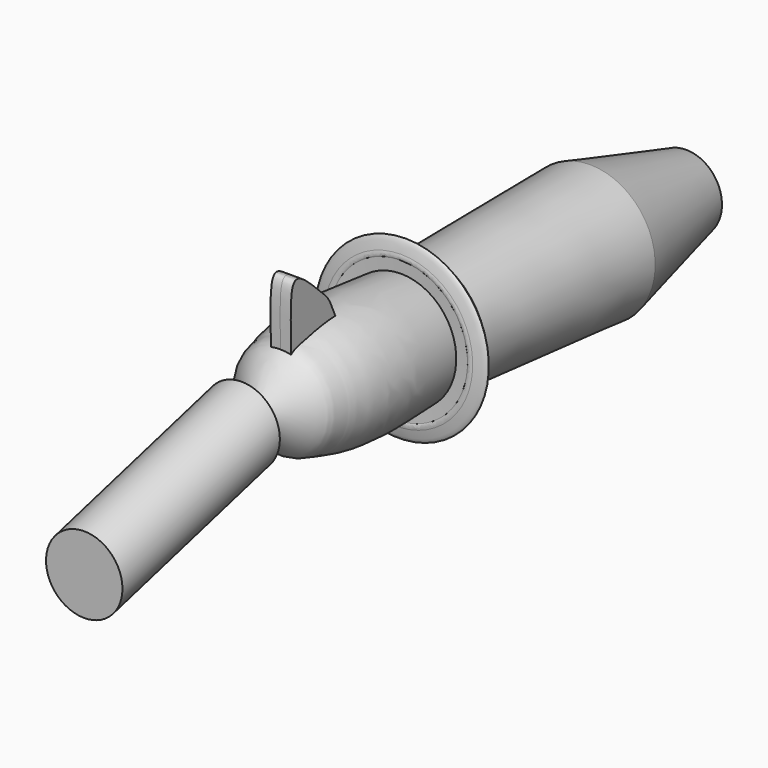
from build123d import *

# Parameters (mm, degrees)
F3_DEPTH      = 3.18879
F3_DEPTH_BACK = 2.87043
F5_R          = 11.4831070985


with BuildPart() as f1:
    # F0 (on Right) → F1 (revolve)
    with BuildSketch(Plane.YZ):
        with BuildLine():
            Line((-35.8375459909, 0), (-34.5735326409, 0))
            add(Edge.make_bspline(
                [(-34.5735326409, 0), (-33.4839411417, 2.8352549766), (-33.2893912504, 5.9047763272), (-35.7264161231, 6.443526059), (-36.0177738871, 5.9354789921)],
                knots=[0, 0, 0, 0, 0.6022047694, 0.8345112386, 0.8345112386, 0.8345112386, 0.8345112386], degree=3))
            add(Edge.make_bspline(
                [(-36.0177738871, 5.9354789921), (-35.7958521289, 4.958153288), (-35.7043367754, 4.020275204), (-35.8375459909, 3.6809511948)],
                knots=[0.7900379855, 0.7900379855, 0.7900379855, 0.7900379855, 1, 1, 1, 1], degree=3))
            Line((-35.8375459909, 3.6809511948), (-35.8375459909, 0))
        make_face()
        with BuildLine():
            Line((32.0533141494, 0), (-34.5735326409, 0))
            Line((-34.5735326409, 0), (-35.8375459909, 0))
            Line((-35.8375459909, 0), (-38.3094936345, 0))
            Line((-38.3094936345, 0), (-39.0193797648, 0))
            Line((-39.0193797648, 0), (-39.0193797648, 0.0979808173))
            add(Edge.make_bspline(
                [(-39.0193797648, 0.0979808173), (-68.0113405859, 4.0655995709), (-80.4573271315, -1.4852645131), (-84.941752255, 0), (-95.8028286695, -14.6768465638)],
                knots=[0.0046655443, 0.0046655443, 0.0046655443, 0.0046655443, 0.5797874, 1, 1, 1, 1], degree=3))
            Line((-95.8028286695, -14.6768465638), (64.8941198636, -21.6936495741))
            Line((64.8941198636, -21.6936495741), (68.1527927518, -10.7156159356))
            Line((68.1527927518, -10.7156159356), (32.0533141494, 0))
        make_face()
        with BuildLine():
            add(Edge.make_bspline(
                [(-36.0177738871, 5.9354789921), (-35.7958521289, 4.958153288), (-35.7043367754, 4.020275204), (-35.8375459909, 3.6809511948)],
                knots=[0.7900379855, 0.7900379855, 0.7900379855, 0.7900379855, 1, 1, 1, 1], degree=3))
            add(Edge.make_bspline(
                [(-36.0177738871, 5.9354789921), (-36.2253291725, 5.5735601865), (-36.2364677461, 4.8777122951), (-35.8375459909, 3.6809511948)],
                knots=[0.8345112386, 0.8345112386, 0.8345112386, 0.8345112386, 1, 1, 1, 1], degree=3))
        make_face()
        with BuildLine():
            add(Edge.make_bspline(
                [(-36.0177738871, 5.9354789921), (-36.2253291725, 5.5735601865), (-36.2364677461, 4.8777122951), (-35.8375459909, 3.6809511948)],
                knots=[0.8345112386, 0.8345112386, 0.8345112386, 0.8345112386, 1, 1, 1, 1], degree=3))
            add(Edge.make_bspline(
                [(-39.0061182557, 5.2068801669), (-38.7779364599, 6.7963242858), (-37.5453180327, 10.4236916778), (-36.3222059064, 7.2761732985), (-36.0177738871, 5.9354789921)],
                knots=[0.1493227134, 0.1493227134, 0.1493227134, 0.1493227134, 0.5020123292, 0.7900379855, 0.7900379855, 0.7900379855, 0.7900379855], degree=3))
            add(Edge.make_bspline(
                [(-39.0061182557, 5.2068801669), (-38.7694943424, 5.7333496597), (-38.4078302885, 5.997368367), (-38.3094936345, 5.3160032257)],
                knots=[0.9025856706, 0.9025856706, 0.9025856706, 0.9025856706, 1.8627935026, 1.8627935026, 1.8627935026, 1.8627935026], degree=3))
            Line((-38.3094936345, 5.3160032257), (-38.3094936345, 4.5090997592))
            Line((-38.3094936345, 4.5090997592), (-38.3094936345, 0))
            Line((-38.3094936345, 0), (-35.8375459909, 0))
            Line((-35.8375459909, 0), (-35.8375459909, 3.6809511948))
        make_face()
        with BuildLine():
            add(Edge.make_bspline(
                [(-39.0061182557, 5.2068801669), (-38.7694943424, 5.7333496597), (-38.4078302885, 5.997368367), (-38.3094936345, 5.3160032257)],
                knots=[0.9025856706, 0.9025856706, 0.9025856706, 0.9025856706, 1.8627935026, 1.8627935026, 1.8627935026, 1.8627935026], degree=3))
            add(Edge.make_bspline(
                [(-39.0193797648, 3.5937775392), (-39.1186120706, 3.9340006409), (-39.102726501, 4.5339368816), (-39.0061182557, 5.2068801669)],
                knots=[0, 0, 0, 0, 0.1493227134, 0.1493227134, 0.1493227134, 0.1493227134], degree=3))
            Line((-39.0193797648, 3.5937775392), (-39.0193797648, 0.0979808173))
            add(Edge.make_bspline(
                [(-38.3094936345, 0), (-38.547563822, 0.0331358417), (-38.7841891256, 0.0657944193), (-39.0193797648, 0.0979808173)],
                knots=[0, 0, 0, 0, 0.0046655443, 0.0046655443, 0.0046655443, 0.0046655443], degree=3))
            Line((-38.3094936345, 0), (-38.3094936345, 4.5090997592))
            Line((-38.3094936345, 4.5090997592), (-38.3094936345, 5.3160032257))
        make_face()
        with BuildLine():
            add(Edge.make_bspline(
                [(-39.0193797648, 3.5937775392), (-39.1186120706, 3.9340006409), (-39.102726501, 4.5339368816), (-39.0061182557, 5.2068801669)],
                knots=[0, 0, 0, 0, 0.1493227134, 0.1493227134, 0.1493227134, 0.1493227134], degree=3))
            add(Edge.make_bspline(
                [(-39.0193797648, 3.5937775392), (-39.3404833406, 3.9852316135), (-39.228542346, 4.7120041573), (-39.0061182557, 5.2068801669)],
                knots=[0, 0, 0, 0, 0.9025856706, 0.9025856706, 0.9025856706, 0.9025856706], degree=3))
        make_face()
        with BuildLine():
            Line((-39.0193797648, 0), (-38.3094936345, 0))
            add(Edge.make_bspline(
                [(-38.3094936345, 0), (-38.547563822, 0.0331358417), (-38.7841891256, 0.0657944193), (-39.0193797648, 0.0979808173)],
                knots=[0, 0, 0, 0, 0.0046655443, 0.0046655443, 0.0046655443, 0.0046655443], degree=3))
            Line((-39.0193797648, 0.0979808173), (-39.0193797648, 0))
        make_face()
    revolve(axis=Axis((0, -15.454354403, -18.1852480689), (0, -0.9990480529, 0.0436232514)))

    # F2 (on Right) → F3 (join, two sides)
    with BuildSketch(Plane.YZ) as f3_sk:
        with BuildLine():
            Line((-82.5377777219, -4.3148691766), (-67.0042484999, 0))
            add(Edge.make_bspline(
                [(-67.0042484999, 0), (-69.9630156159, 7.766764611), (-71.1910091742, 7.7360081009), (-86.1604789455, 24.093002455), (-84.0871404165, 6.4712309051), (-84.2637270689, -4.3148691766)],
                knots=[0, 0, 0, 0, 0.3010682954, 0.5957044745, 1, 1, 1, 1], degree=3))
            Line((-84.2637270689, -4.3148691766), (-82.5377777219, -4.3148691766))
        make_face()
    extrude(amount=F3_DEPTH)
    extrude(f3_sk.sketch, amount=-F3_DEPTH_BACK)


with BuildPart() as f7:
    # F7: sweep along a path in F6
    with BuildLine(Plane.YZ) as f7_path:
        Line((-98.971106112, -15.6938340515), (-158.0796688795, -31.2098301947))
    # F5 (on offset) → F7 (sweep)
    with BuildSketch(Plane.XZ.offset(98.806)):
        with Locations((0, -15.6568102539)):
            Circle(F5_R)
    sweep(path=f7_path.line)


solid = Compound([f1.part, f7.part])
